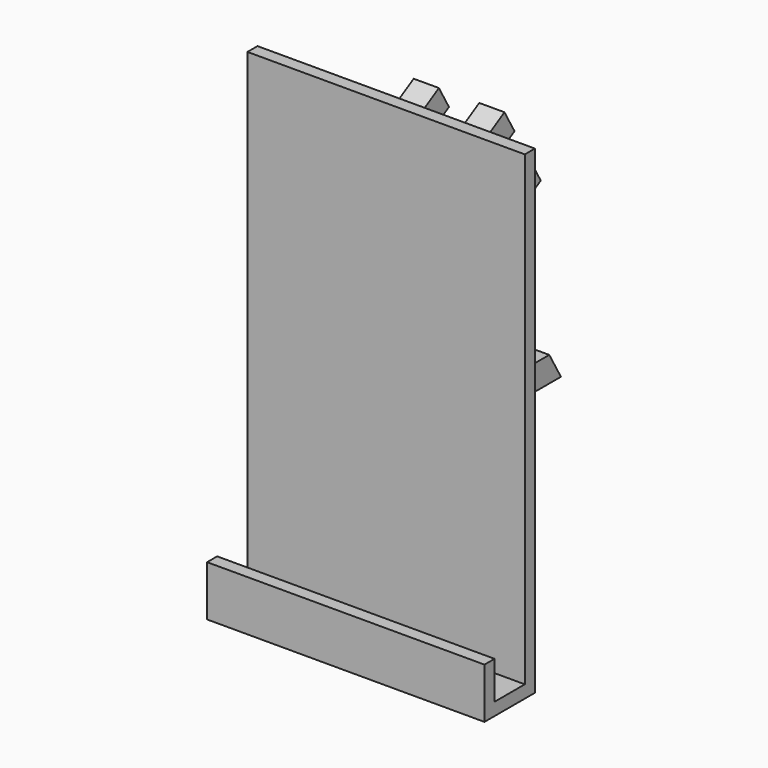
from build123d import *

# Parameters (mm, degrees)
F0_W     = 15
F0_H     = 5
F1_DEPTH = 110
F2_W     = 8
F2_H     = 98.8297045976
F2_W_2   = 37
F2_H_2   = 91.1702954024
F2_W_3   = 10
F3_DEPTH = 100


with BuildPart() as f1:
    # F0 (on Right) → F1 (new body)
    with BuildSketch(Plane.YZ):
        Polygon((25.9903810568, 69.0718664573), (0, 54.0663129578), (0, 42.519307574), (30.9903810568, 60.4116124194), align=None)
        Polygon((44.1514833946, 79.5571837808), (25.9903810568, 69.0718664573), (30.9903810568, 60.4116124194), (49.1514833946, 70.8969297429), align=None)
        Polygon((12.9903810568, 91.5885269557), (0, 84.0885269557), (0, 72.5415215719), (17.9903810568, 82.9282729178), align=None)
        Polygon((31.1514833946, 102.0738442792), (12.9903810568, 91.5885269557), (17.9903810568, 82.9282729178), (36.1514833946, 93.4135902413), align=None)
        Polygon((-20, -75.9114730443), (-20, -70.9114730443), (-20, -55.9114730443), (-25, -55.9114730443), (-25, -75.9114730443), align=None)
        with Locations((-12.5, -73.4114730443)):
            Rectangle(F0_W, F0_H)
        Polygon((0, 114.0885269557), (-5, 114.0885269557), (-5, -70.9114730443), (-5, -75.9114730443), (0, -75.9114730443), (0, -10), (0, 0), (0, 42.519307574), (0, 54.0663129578), (0, 72.5415215719), (0, 84.0885269557), align=None)
        Polygon((0, 0), (0, -10), (71.6425444412, -10), (65.8690417493, 0), align=None)
    extrude(amount=F1_DEPTH)

    # F2 (on Front) → F3 (cut)
    with BuildSketch(Plane.XZ):
        with Locations((51, 64.6969747171)):
            Rectangle(F2_W, F2_H)
        with Locations((59, 64.6969747171)):
            Rectangle(F2_W, F2_H)
        with Locations((91.5, -30.3030252829)):
            Rectangle(F2_W_2, F2_H_2)
        with Locations((18.5, -30.3030252829)):
            Rectangle(F2_W_2, F2_H_2)
        with Locations((42, -30.3030252829)):
            Rectangle(F2_W_3, F2_H_2)
        with Locations((68, -30.3030252829)):
            Rectangle(F2_W_3, F2_H_2)
        with Locations((91.5, 64.6969747171)):
            Rectangle(F2_W_2, F2_H)
        with Locations((18.5, 64.6969747171)):
            Rectangle(F2_W_2, F2_H)
    extrude(amount=-F3_DEPTH, mode=Mode.SUBTRACT)


solid = f1.part
